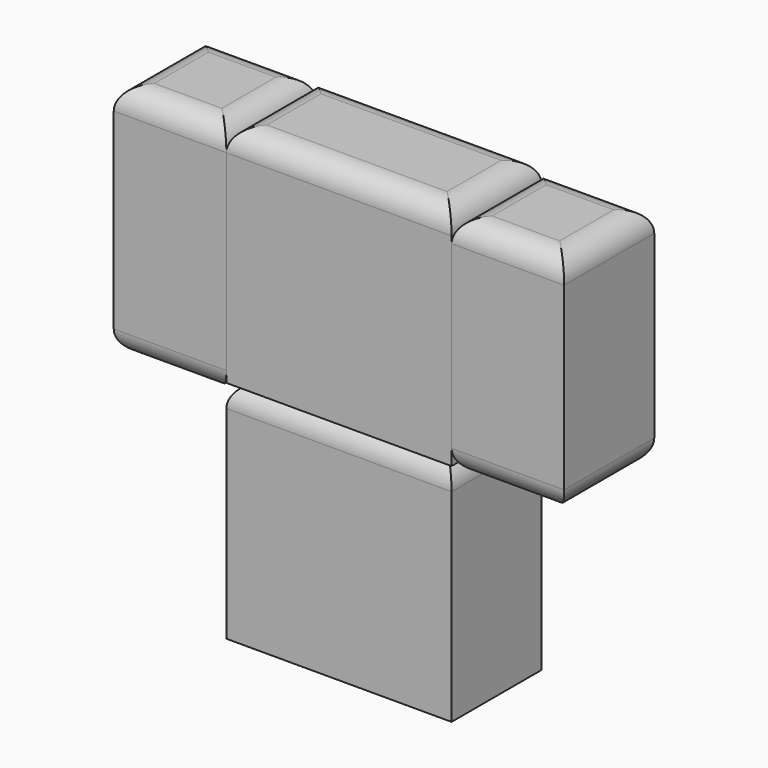
from build123d import *

# Parameters (mm, degrees)
F0_W     = 25.4
F0_H     = 25.4
F1_DEPTH = 50.8
F2_R     = 5.08
F3_W     = 50.8
F3_H     = 25.4
F4_DEPTH = 50.8
F5_W     = 25.4
F5_H     = 53.4215743065
F6_DEPTH = 25.4
F8_W     = 25.4
F8_H     = 50.8
F9_DEPTH = 25.4
F10_R    = 5.08
F10_2_R  = 5.08
F10_3_R  = 5.08


with BuildPart() as f1:
    # F0 (on Top) → F1 (new body)
    with BuildSketch(Plane.XY):
        Rectangle(F0_W, F0_H)
        with Locations((25.4, 0)):
            Rectangle(F0_W, F0_H)
    extrude(amount=F1_DEPTH)

    # F2
    f2_edges = [f1.edges().sort_by_distance(p)[0] for p in [
        (-12.7, 0, 50.8),
        (12.7, -12.7, 50.8),
        (38.1, 0, 50.8),
        (12.7, 12.7, 50.8),
    ]]
    fillet(f2_edges, radius=F2_R)

    # F3 (on face) → F4 (join)
    with BuildSketch(Plane.XY.offset(50.8)):
        with Locations((12.7, 0)):
            Rectangle(F3_W, F3_H)
    extrude(amount=F4_DEPTH)

    # F10#2
    f10_2_edges = [f1.edges().sort_by_distance(p)[0] for p in [
        (-12.7, 0, 101.6),
        (12.7, -12.7, 101.6),
        (38.1, 0, 101.6),
        (12.7, 12.7, 101.6),
    ]]
    fillet(f10_2_edges, radius=F10_2_R)


with BuildPart() as f6:
    # F5 (on face) → F6 (new body)
    with BuildSketch(Plane(origin=(-12.7, 0, 0), x_dir=(0, -1, 0), z_dir=(-1, 0, 0))):
        with Locations((0, 74.8892128468)):
            Rectangle(F5_W, F5_H)
    extrude(amount=F6_DEPTH)

    # F10
    f10_edges = [f6.edges().sort_by_distance(p)[0] for p in [
        (-25.4, -12.7, 101.6),
        (-25.4, 12.7, 101.6),
        (-12.7, 0, 101.6),
        (-38.1, 0, 101.6),
        (-25.4, 12.7, 48.178426),
        (-25.4, -12.7, 48.178426),
        (-12.7, 0, 48.178426),
        (-38.1, 0, 48.178426),
    ]]
    fillet(f10_edges, radius=F10_R)


with BuildPart() as f9:
    # F8 (on face) → F9 (new body)
    with BuildSketch(Plane.YZ.offset(38.1)):
        with Locations((0, 74.6534094214)):
            Rectangle(F8_W, F8_H)
    extrude(amount=F9_DEPTH)

    # F10#3
    f10_3_edges = [f9.edges().sort_by_distance(p)[0] for p in [
        (50.8, 12.7, 100.053409),
        (50.8, -12.7, 100.053409),
        (38.1, 0, 100.053409),
        (63.5, 0, 100.053409),
        (50.8, -12.7, 49.253409),
        (50.8, 12.7, 49.253409),
        (38.1, 0, 49.253409),
        (63.5, 0, 49.253409),
    ]]
    fillet(f10_3_edges, radius=F10_3_R)


solid = Compound([f1.part, f6.part, f9.part])
